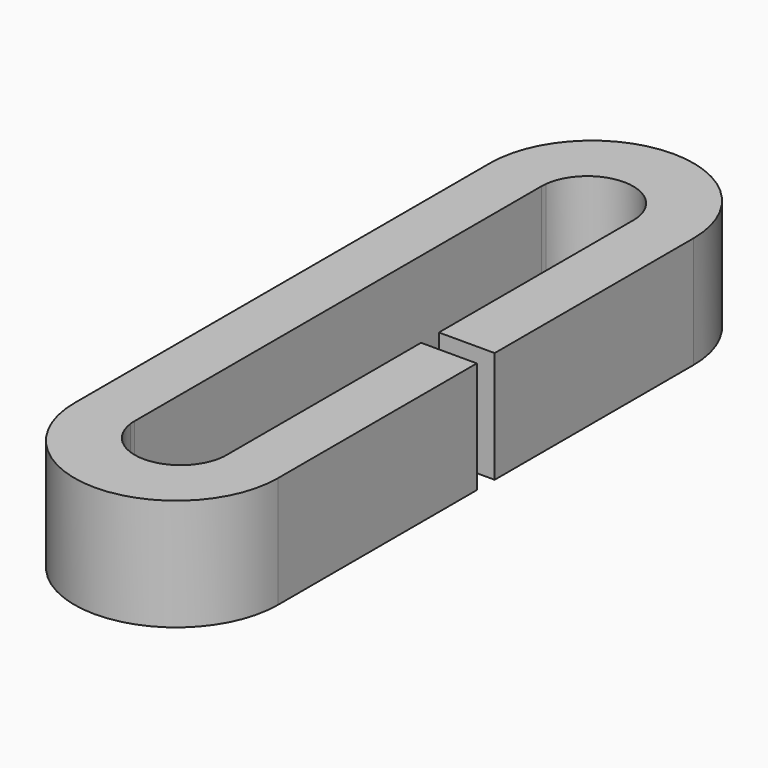
from build123d import *

# Parameters (mm, degrees)
F1_DEPTH = 5


with BuildPart() as f1:
    # F0 (on Top) → F1 (new body)
    with BuildSketch(Plane.XY):
        with BuildLine():
            Line((2.0447738261, 11.64), (4.56, 11.64))
            ThreePointArc((4.56, 11.64), (0, 16.2), (-4.56, 11.64))
            Line((-4.56, 11.64), (-2.0447738261, 11.64))
            ThreePointArc((-2.0447738261, 11.64), (0, 13.45), (2.0447738261, 11.64))
        make_face()
        with BuildLine():
            Line((-2.0447738261, 11.64), (-4.56, 11.64))
            Line((-4.56, 11.64), (-4.56, -11.64))
            Line((-4.56, -11.64), (-2.0447738261, -11.64))
            ThreePointArc((-2.0447738261, -11.64), (-2.0561899331, -11.5152316218), (-2.06, -11.39))
            Line((-2.06, -11.39), (-2.06, 11.39))
            ThreePointArc((-2.06, 11.39), (-2.0561899331, 11.5152316218), (-2.0447738261, 11.64))
        make_face()
        with BuildLine():
            Line((-2.0447738261, -11.64), (-4.56, -11.64))
            ThreePointArc((-4.56, -11.64), (0, -16.2), (4.56, -11.64))
            Line((4.56, -11.64), (2.0447738261, -11.64))
            ThreePointArc((2.0447738261, -11.64), (0, -13.45), (-2.0447738261, -11.64))
        make_face()
        with BuildLine():
            Line((4.56, 0.5), (4.56, 11.64))
            Line((4.56, 11.64), (2.0447738261, 11.64))
            ThreePointArc((2.0447738261, 11.64), (2.0561899331, 11.5152316218), (2.06, 11.39))
            Line((2.06, 11.39), (2.06, 0.5))
            Line((2.06, 0.5), (4.56, 0.5))
        make_face()
        with BuildLine():
            Line((4.56, -11.64), (4.56, -0.5))
            Line((4.56, -0.5), (2.06, -0.5))
            Line((2.06, -0.5), (2.06, -11.39))
            ThreePointArc((2.06, -11.39), (2.0561899331, -11.5152316218), (2.0447738261, -11.64))
            Line((2.0447738261, -11.64), (4.56, -11.64))
        make_face()
    extrude(amount=F1_DEPTH)


solid = f1.part
